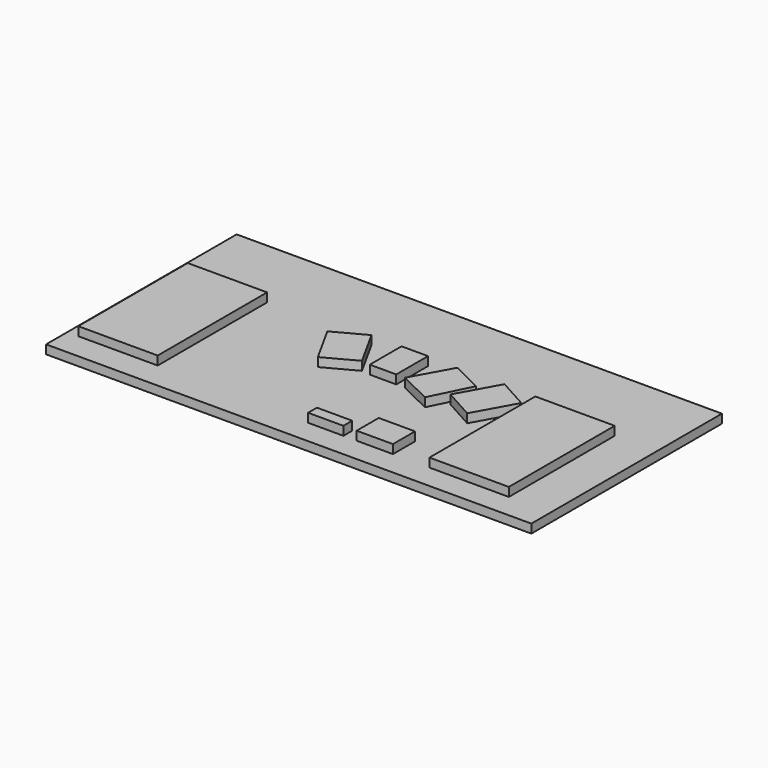
from build123d import *

# Parameters (mm, degrees)
F0_W     = 1397
F0_H     = 685.8
F1_DEPTH = 25.4
F2_W     = 228.6
F2_H     = 393.7
F2_H_2   = 381
F2_W_2   = 104.490054
F2_H_3   = 79.409756
F3_DEPTH = 25.4


with BuildPart() as f1:
    # F0 (on Top) → F1 (new body)
    with BuildSketch(Plane.XY):
        Rectangle(F0_W, F0_H)
    extrude(amount=F1_DEPTH)


with BuildPart() as f3:
    # F2 (on face) → F3 (new body)
    with BuildSketch(Plane.XY.offset(25.4)):
        Polygon((-0.023387, 53.623086), (-38.1, -3.421758), (38.1, -3.561994), align=None)
        Polygon((-38.1, 110.738006), (-38.1, -3.421758), (-0.023387, 53.623086), align=None)
        Polygon((-0.023387, 53.623086), (38.1, -3.561994), (38.1, 110.738006), align=None)
        Polygon((38.1, 110.738006), (-38.1, 110.738006), (-0.023387, 53.623086), align=None)
        with Locations((-552.45, -69.85)):
            Rectangle(F2_W, F2_H)
        with Locations((463.55, -82.55)):
            Rectangle(F2_W, F2_H_2)
        Polygon((101.6, -241.3), (0, -273.05), (101.6, -273.05), align=None)
        Polygon((0, -241.3), (0, -273.05), (101.6, -241.3), align=None)
        with Locations((191.945027, -233.345122)):
            Rectangle(F2_W_2, F2_H_3)
        Polygon((124.983611, 107.563006), (63.5, -3.561994), (157.786446, -50.210266), (214.044664, 63.5), align=None)
        Polygon((257.782698, 111.485978), (194.128571, -3.561994), (280.858056, -51.547973), (344.512182, 63.5), align=None)
        Polygon((-63.5, 0), (-124.983611, 111.125), (-213.883611, 63.5), (-152.4, -47.625), align=None)
    extrude(amount=F3_DEPTH)


solid = Compound([f1.part, f3.part])
